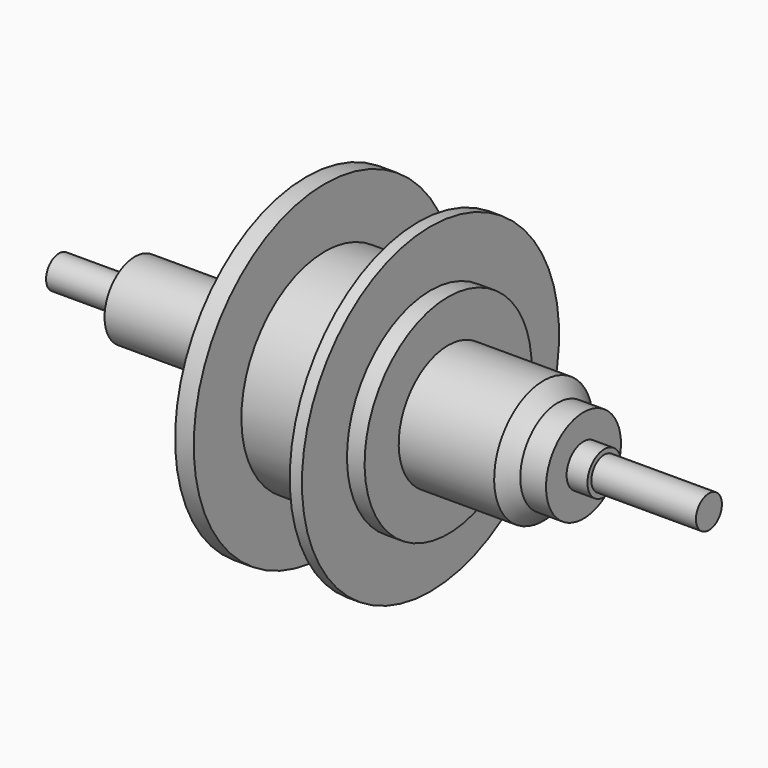
from build123d import *

# Parameters (mm, degrees)
F0_R     = 7.5
F1_DEPTH = 150


with BuildPart() as f1:
    # F0 (on Right) → F1 (new body, symmetric)
    with BuildSketch(Plane.YZ):
        Circle(F0_R)
    extrude(amount=F1_DEPTH, both=True)


with BuildPart() as f3:
    # F2 (on Front) → F3 (revolve)
    with BuildSketch(Plane.XZ):
        Polygon((-115, 17.5), (-115, 7.5), (101.7164443272, 7.511508713), (101.7164443272, 9.7499957391), (92.09375605, 9.7499957391), (92.09375605, 21.6249969955), (80.2187565416, 21.6249969955), (73.6562560773, 28.4999943187), (29.5937514613, 28.4999943187), (29.5937514613, 48.1874957117), (21.4687474735, 48.1874957117), (21.4687474735, 74.1874957117), (15.8437498225, 74.1874957117), (15.8437498225, 48.1874957117), (0, 48.1874957117), (-27.2812519802, 48.1874957117), (-27.2812519802, 75.6874989894), (-35.8750012564, 75.6874989894), (-35.8750012564, 49.6874989894), (-44, 49.6874989894), (-44, 27.5), (-60, 27.5), (-60, 17.5), align=None)
    revolve(axis=Axis((0, 0, 0), (1, 0, 0)))


solid = Compound([f1.part, f3.part])
